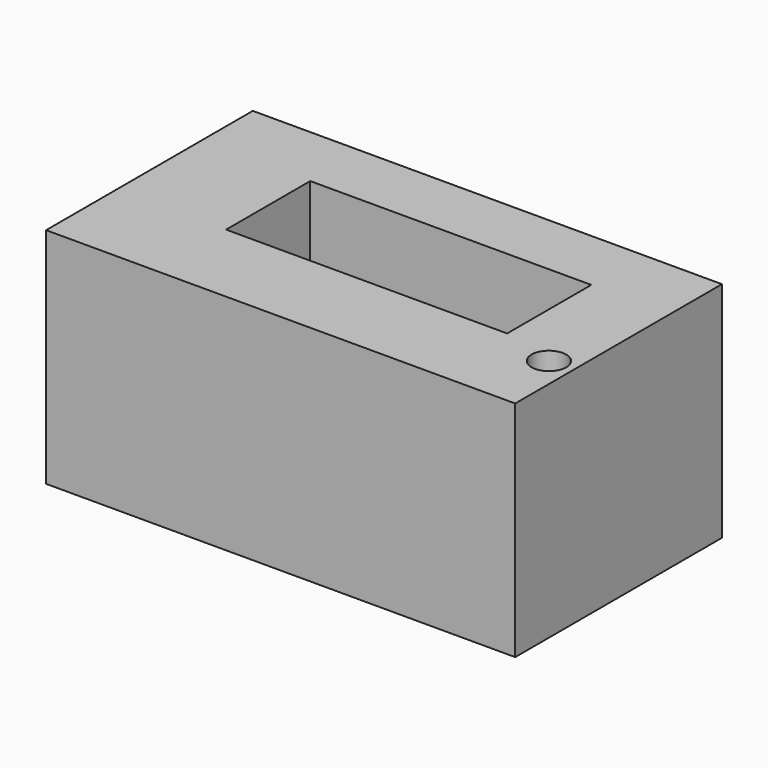
from build123d import *

# Parameters (mm, degrees)
F0_W     = 53.355787
F0_H     = 29.385667
F0_R     = 1.970291
F0_W_2   = 31.967147
F0_H_2   = 11.958933
F1_DEPTH = 25.4


with BuildPart() as f1:
    # F0 (on Top) → F1 (new body)
    with BuildSketch(Plane.XY):
        with Locations((26.677893, 14.692833)):
            Rectangle(F0_W, F0_H)
        with Locations((50.581049, 8.259824)):
            Circle(F0_R, mode=Mode.SUBTRACT)
        with Locations((28.403014, 16.046856)):
            Rectangle(F0_W_2, F0_H_2, mode=Mode.SUBTRACT)
    extrude(amount=F1_DEPTH)


solid = f1.part
